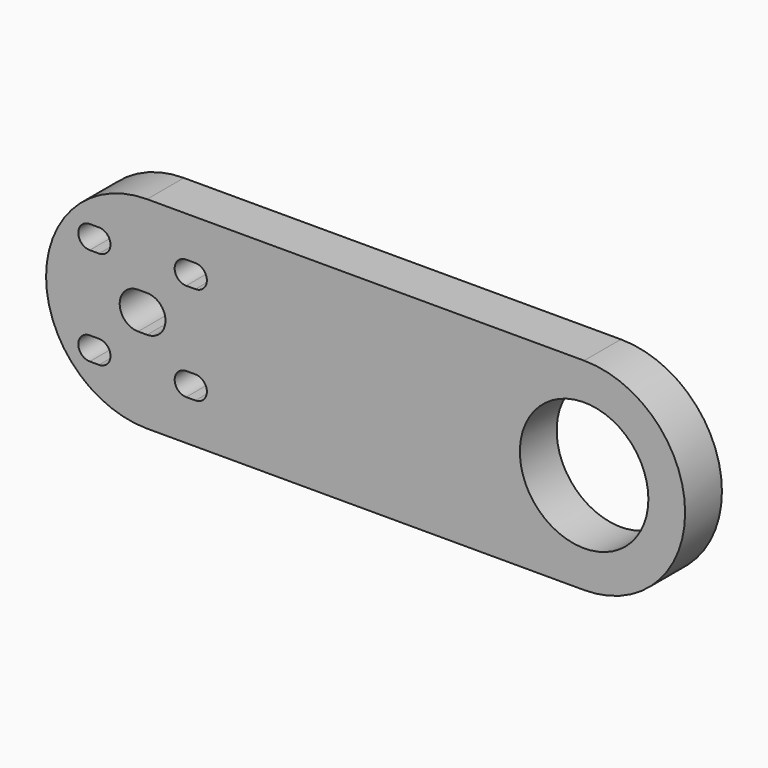
from build123d import *

# Parameters (mm, degrees)
F0_R     = 13.96796
F1_DEPTH = 10


with BuildPart() as f1:
    # F0 (on Front) → F1 (new body)
    with BuildSketch(Plane.XZ):
        with BuildLine():
            Line((-65.342151, -131.799161), (29.657789, -131.799161))
            ThreePointArc((29.657789, -131.799161), (51.611319, -109.845631), (29.657789, -87.892101))
            Line((29.657789, -87.892101), (-65.342151, -87.892101))
            ThreePointArc((-65.342151, -87.892101), (-87.295681, -109.845631), (-65.342151, -131.799161))
        make_face()
        with BuildLine():
            Line((-75.795681, -122.999161), (-77.795681, -122.999161))
            ThreePointArc((-77.795681, -122.999161), (-80.295681, -120.499161), (-77.795681, -117.999161))
            Line((-77.795681, -117.999161), (-75.795681, -117.999161))
            ThreePointArc((-75.795681, -117.999161), (-73.295681, -120.499161), (-75.795681, -122.999161))
        make_face(mode=Mode.SUBTRACT)
        with BuildLine():
            ThreePointArc((-56.842151, -122.999161), (-59.342151, -120.499161), (-56.842151, -117.999161))
            Line((-56.842151, -117.999161), (-54.842151, -117.999161))
            ThreePointArc((-54.842151, -117.999161), (-52.342151, -120.499161), (-54.842151, -122.999161))
            Line((-54.842151, -122.999161), (-56.842151, -122.999161))
        make_face(mode=Mode.SUBTRACT)
        with BuildLine():
            ThreePointArc((-67.295681, -113.845631), (-71.295681, -109.845631), (-67.295681, -105.845631))
            Line((-67.295681, -105.845631), (-65.342151, -105.845631))
            ThreePointArc((-65.342151, -105.845631), (-61.342151, -109.845631), (-65.342151, -113.845631))
            Line((-65.342151, -113.845631), (-67.295681, -113.845631))
        make_face(mode=Mode.SUBTRACT)
        with BuildLine():
            Line((-75.795681, -101.692101), (-77.795681, -101.692101))
            ThreePointArc((-77.795681, -101.692101), (-80.295681, -99.192101), (-77.795681, -96.692101))
            Line((-77.795681, -96.692101), (-75.795681, -96.692101))
            ThreePointArc((-75.795681, -96.692101), (-73.295681, -99.192101), (-75.795681, -101.692101))
        make_face(mode=Mode.SUBTRACT)
        with BuildLine():
            ThreePointArc((-54.842151, -96.692101), (-52.342151, -99.192101), (-54.842151, -101.692101))
            Line((-54.842151, -101.692101), (-56.842151, -101.692101))
            ThreePointArc((-56.842151, -101.692101), (-59.342151, -99.192101), (-56.842151, -96.692101))
            Line((-56.842151, -96.692101), (-54.842151, -96.692101))
        make_face(mode=Mode.SUBTRACT)
        with Locations((29.657789, -109.845631)):
            Circle(F0_R, mode=Mode.SUBTRACT)
    extrude(amount=F1_DEPTH)


solid = f1.part
